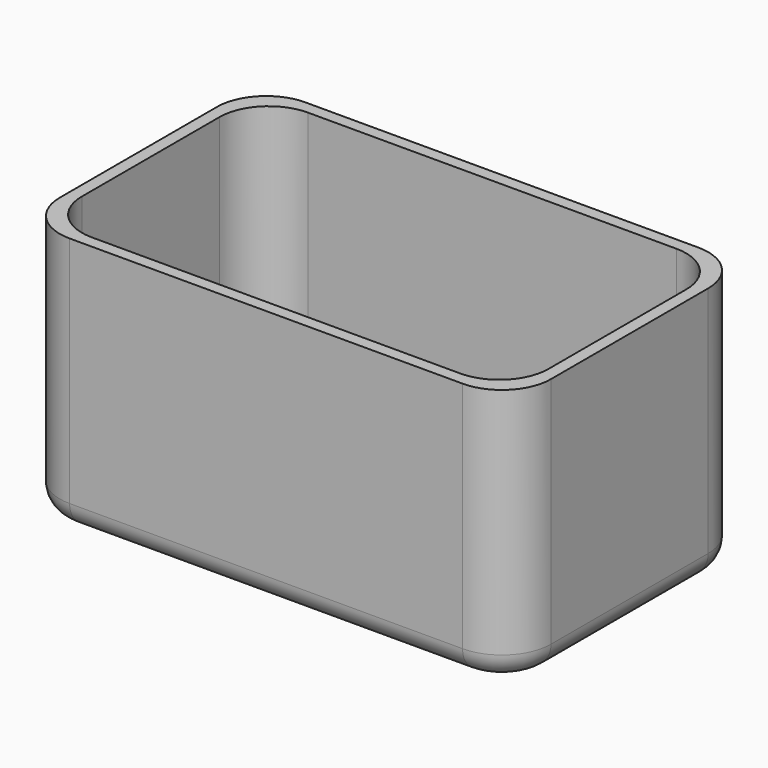
from build123d import *

# Parameters (mm, degrees)
F1_DEPTH = 3.175
F2_DEPTH = 63.5
F3_R     = 6.35


with BuildPart() as f1:
    # F0 (on Top) → F1 (new body)
    with BuildSketch(Plane.XY):
        with BuildLine():
            ThreePointArc((63.5, 25.4), (59.7802561211, 34.3802561211), (50.8, 38.1))
            Line((50.8, 38.1), (-50.8, 38.1))
            ThreePointArc((-50.8, 38.1), (-59.7802561211, 34.3802561211), (-63.5, 25.4))
            Line((-63.5, 25.4), (-63.5, -25.4))
            ThreePointArc((-63.5, -25.4), (-59.7802561211, -34.3802561211), (-50.8, -38.1))
            Line((-50.8, -38.1), (50.8, -38.1))
            ThreePointArc((50.8, -38.1), (59.7802561211, -34.3802561211), (63.5, -25.4))
            Line((63.5, -25.4), (63.5, 25.4))
        make_face()
        with BuildLine():
            Line((-47.625, 34.925), (47.625, 34.925))
            ThreePointArc((47.625, 34.925), (56.6052561211, 31.2052561211), (60.325, 22.225))
            Line((60.325, 22.225), (60.325, -22.225))
            ThreePointArc((60.325, -22.225), (56.6052561211, -31.2052561211), (47.625, -34.925))
            Line((47.625, -34.925), (-47.625, -34.925))
            ThreePointArc((-47.625, -34.925), (-56.6052561211, -31.2052561211), (-60.325, -22.225))
            Line((-60.325, -22.225), (-60.325, 22.225))
            ThreePointArc((-60.325, 22.225), (-56.6052561211, 31.2052561211), (-47.625, 34.925))
        make_face(mode=Mode.SUBTRACT)
        with BuildLine():
            ThreePointArc((60.325, 22.225), (56.6052561211, 31.2052561211), (47.625, 34.925))
            Line((47.625, 34.925), (-47.625, 34.925))
            ThreePointArc((-47.625, 34.925), (-56.6052561211, 31.2052561211), (-60.325, 22.225))
            Line((-60.325, 22.225), (-60.325, -22.225))
            ThreePointArc((-60.325, -22.225), (-56.6052561211, -31.2052561211), (-47.625, -34.925))
            Line((-47.625, -34.925), (47.625, -34.925))
            ThreePointArc((47.625, -34.925), (56.6052561211, -31.2052561211), (60.325, -22.225))
            Line((60.325, -22.225), (60.325, 22.225))
        make_face()
    extrude(amount=-F1_DEPTH)

    # F0 (on Top) → F2 (join)
    with BuildSketch(Plane.XY):
        with BuildLine():
            ThreePointArc((63.5, 25.4), (59.7802561211, 34.3802561211), (50.8, 38.1))
            Line((50.8, 38.1), (-50.8, 38.1))
            ThreePointArc((-50.8, 38.1), (-59.7802561211, 34.3802561211), (-63.5, 25.4))
            Line((-63.5, 25.4), (-63.5, -25.4))
            ThreePointArc((-63.5, -25.4), (-59.7802561211, -34.3802561211), (-50.8, -38.1))
            Line((-50.8, -38.1), (50.8, -38.1))
            ThreePointArc((50.8, -38.1), (59.7802561211, -34.3802561211), (63.5, -25.4))
            Line((63.5, -25.4), (63.5, 25.4))
        make_face()
        with BuildLine():
            Line((-47.625, 34.925), (47.625, 34.925))
            ThreePointArc((47.625, 34.925), (56.6052561211, 31.2052561211), (60.325, 22.225))
            Line((60.325, 22.225), (60.325, -22.225))
            ThreePointArc((60.325, -22.225), (56.6052561211, -31.2052561211), (47.625, -34.925))
            Line((47.625, -34.925), (-47.625, -34.925))
            ThreePointArc((-47.625, -34.925), (-56.6052561211, -31.2052561211), (-60.325, -22.225))
            Line((-60.325, -22.225), (-60.325, 22.225))
            ThreePointArc((-60.325, 22.225), (-56.6052561211, 31.2052561211), (-47.625, 34.925))
        make_face(mode=Mode.SUBTRACT)
    extrude(amount=F2_DEPTH)

    # F3
    f3_edges = [f1.edges().sort_by_distance(p)[0] for p in [
        (0, 34.925, 0),
        (0, -38.1, -3.175),
    ]]
    fillet(f3_edges, radius=F3_R)


solid = f1.part
